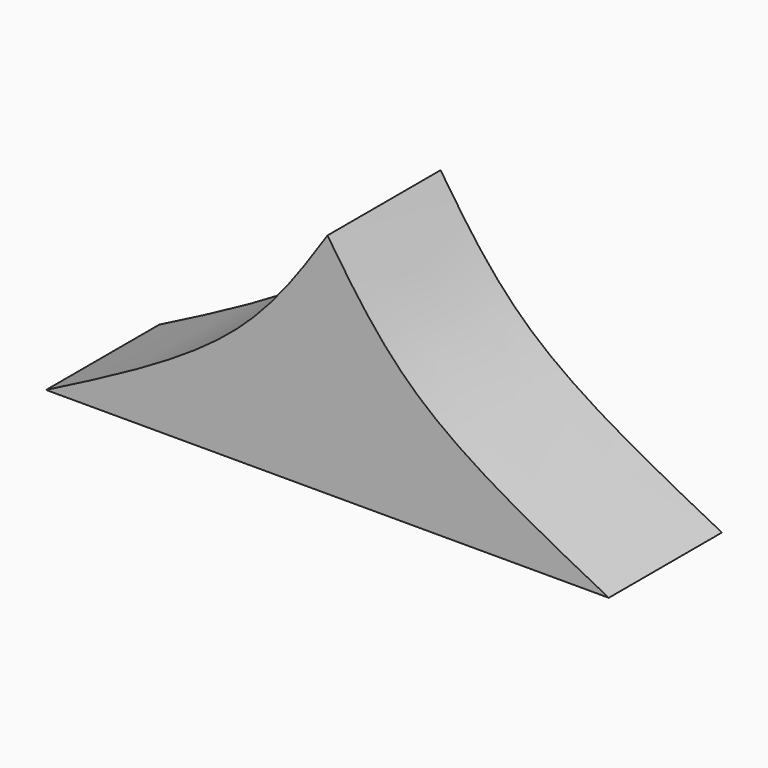
from build123d import *

# Parameters (mm, degrees)
F1_DEPTH = 11.049


with BuildPart() as f1:
    # F0 (on Front) → F1 (new body)
    with BuildSketch(Plane.XZ):
        with BuildLine():
            Line((-21.9904929399, 0), (0, 0))
            Line((0, 0), (0, 17.78))
            add(Edge.make_bspline(
                [(0, 17.78), (-2.0629058828, 14.6946390249), (-6.6513690498, 7.8319589522), (-16.5449316064, 2.7804336213), (-21.9904929399, 0)],
                knots=[0, 0, 0, 0, 0.4495854683, 1, 1, 1, 1], degree=3))
        make_face()
        with BuildLine():
            Line((0, 17.78), (0, 0))
            Line((0, 0), (21.9904929399, 0))
            add(Edge.make_bspline(
                [(0, 17.78), (2.0629058828, 14.6946390249), (6.6513690498, 7.8319589522), (16.5449316064, 2.7804336213), (21.9904929399, 0)],
                knots=[0, 0, 0, 0, 0.4495854683, 1, 1, 1, 1], degree=3))
        make_face()
    extrude(amount=F1_DEPTH)


solid = f1.part
